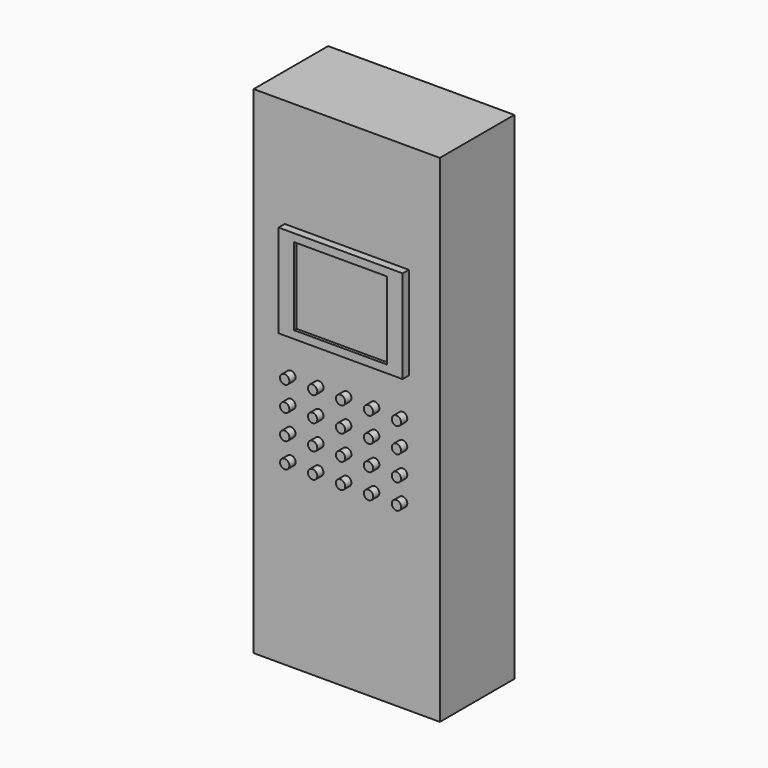
from build123d import *

# Parameters (mm, degrees)
F0_W     = 600
F0_H     = 1600
F1_DEPTH = 300
F2_W     = 400
F2_H     = 300
F3_DEPTH = 25
F4_W     = 300
F4_H     = 250
F5_DEPTH = 10
F6_R     = 15
F7_DEPTH = 25


with BuildPart() as f1:
    # F0 (on Front) → F1 (new body)
    with BuildSketch(Plane.XZ):
        with Locations((300, 800)):
            Rectangle(F0_W, F0_H)
    extrude(amount=F1_DEPTH)

    # F2 (on face) → F3 (join)
    with BuildSketch(Plane.XZ.offset(300)):
        with Locations((300, 1100)):
            Rectangle(F2_W, F2_H)
    extrude(amount=F3_DEPTH)

    # F4 (on face) → F5 (cut)
    with BuildSketch(Plane.XZ.offset(325)):
        with Locations((300, 1100)):
            Rectangle(F4_W, F4_H)
    extrude(amount=-F5_DEPTH, mode=Mode.SUBTRACT)


with BuildPart() as f7:
    # F6 (on face) → F7 (new body)
    with BuildSketch(Plane.XZ.offset(300)):
        with Locations((120, 825.668514)):
            Circle(F6_R)
        with Locations((120, 745.668514)):
            Circle(F6_R)
        with Locations((120, 665.668514)):
            Circle(F6_R)
        with Locations((120, 585.668514)):
            Circle(F6_R)
        with Locations((210, 825.668514)):
            Circle(F6_R)
        with Locations((210, 745.668514)):
            Circle(F6_R)
        with Locations((210, 665.668514)):
            Circle(F6_R)
        with Locations((210, 585.668514)):
            Circle(F6_R)
        with Locations((300, 825.668514)):
            Circle(F6_R)
        with Locations((300, 745.668514)):
            Circle(F6_R)
        with Locations((300, 665.668514)):
            Circle(F6_R)
        with Locations((300, 585.668514)):
            Circle(F6_R)
        with Locations((390, 825.668514)):
            Circle(F6_R)
        with Locations((390, 745.668514)):
            Circle(F6_R)
        with Locations((390, 665.668514)):
            Circle(F6_R)
        with Locations((390, 585.668514)):
            Circle(F6_R)
        with Locations((480, 825.668514)):
            Circle(F6_R)
        with Locations((480, 745.668514)):
            Circle(F6_R)
        with Locations((480, 665.668514)):
            Circle(F6_R)
        with Locations((480, 585.668514)):
            Circle(F6_R)
    extrude(amount=F7_DEPTH)


solid = Compound([f1.part, f7.part])
